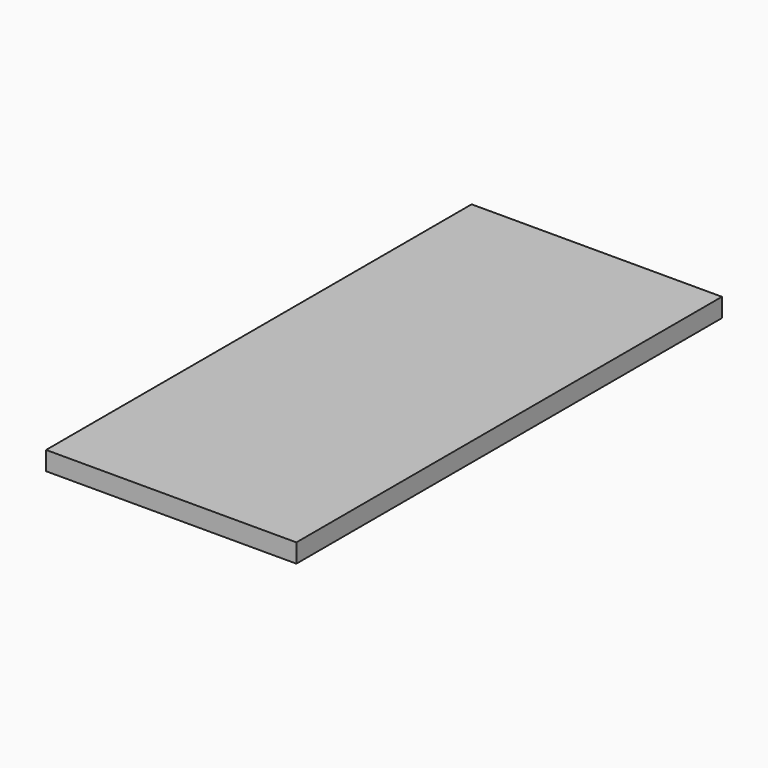
from build123d import *

# Parameters (mm, degrees)
SKETCH_W  = 400
SKETCH_H  = 850
PAD_DEPTH = 30


with BuildPart() as part:
    # Sketch → Pad (new body)
    with BuildSketch(Plane.XY):
        with Locations((200, 425)):
            Rectangle(SKETCH_W, SKETCH_H)
    extrude(amount=PAD_DEPTH)


solid = part.part
